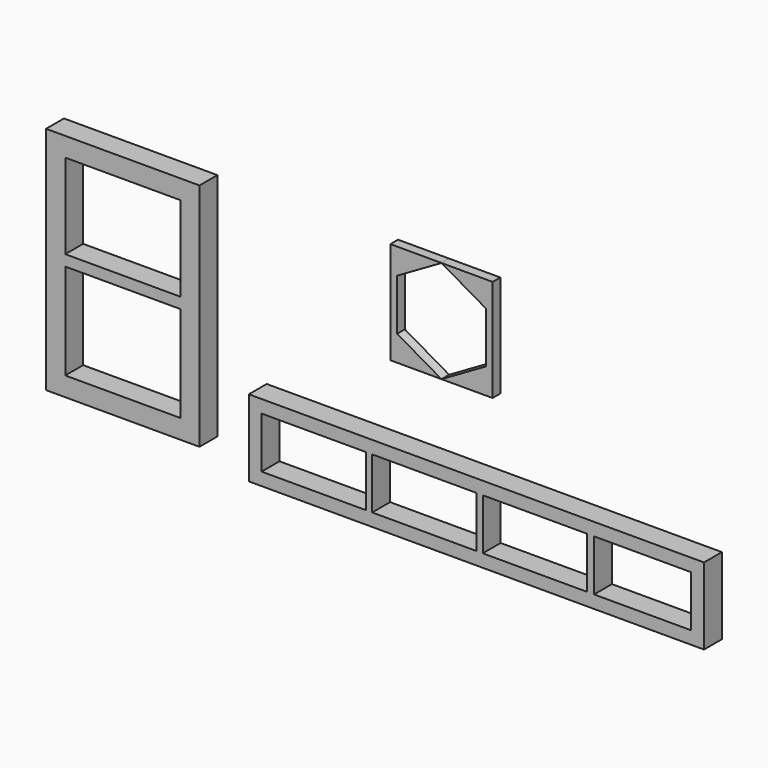
from build123d import *

# Parameters (mm, degrees)
F0_W     = 1808.7867725551
F0_H     = 0.358789257
F0_H_2   = 304.441210743
F0_W_2   = 414.02
F0_H_3   = 203.2
F0_W_3   = 386.0863779962
F1_DEPTH = 88.9
F2_W     = 609.6
F2_H     = 914.4
F2_W_2   = 457.2
F2_H_2   = 381
F2_H_3   = 337.6778893888
F3_DEPTH = 88.9
F5_DEPTH = 38.1


with BuildPart() as f1:
    # F0 (on Front) → F1 (new body)
    with BuildSketch(Plane.XZ):
        with Locations((781.3286745876, 0.1793946285)):
            Rectangle(F0_W, F0_H)
        with Locations((781.3286745876, 152.5793946285)):
            Rectangle(F0_W, F0_H_2)
        with Locations((134.7452883101, 152.4)):
            Rectangle(F0_W_2, F0_H_3, mode=Mode.SUBTRACT)
        with Locations((574.1652883101, 152.4)):
            Rectangle(F0_W_2, F0_H_3, mode=Mode.SUBTRACT)
        with Locations((1013.5852883101, 152.4)):
            Rectangle(F0_W_2, F0_H_3, mode=Mode.SUBTRACT)
        with Locations((1441.8788718671, 152.4)):
            Rectangle(F0_W_3, F0_H_3, mode=Mode.SUBTRACT)
    extrude(amount=F1_DEPTH)


with BuildPart() as f3:
    # F2 (on Front) → F3 (new body)
    with BuildSketch(Plane.XZ):
        with Locations((-623.8560936928, 514.4173856199)):
            Rectangle(F2_W, F2_H)
        with Locations((-623.8560936928, 323.9173856199)):
            Rectangle(F2_W_2, F2_H_2, mode=Mode.SUBTRACT)
        with Locations((-623.8560936928, 726.5784409255)):
            Rectangle(F2_W_2, F2_H_3, mode=Mode.SUBTRACT)
    extrude(amount=F3_DEPTH)


with BuildPart() as f5:
    # F4 (on Front) → F5 (new body)
    with BuildSketch(Plane.XZ):
        Polygon((805.008807373, 979.201887989), (601.808807373, 979.201887989), (777.785169422, 877.601887989), (777.785169422, 674.401887989), (601.808807373, 572.801887989), (805.008807373, 572.801887989), align=None)
    extrude(amount=F5_DEPTH)


with BuildPart() as f5b:
    # F4 (on Front) → F5, piece 2 (new body)
    with BuildSketch(Plane.XZ):
        Polygon((601.808807373, 979.201887989), (398.608807373, 979.201887989), (398.608807373, 572.801887989), (601.808807373, 572.801887989), (425.832445324, 674.401887989), (425.832445324, 877.601887989), align=None)
    extrude(amount=F5_DEPTH)


solid = Compound([f1.part, f3.part, f5.part, f5b.part])
